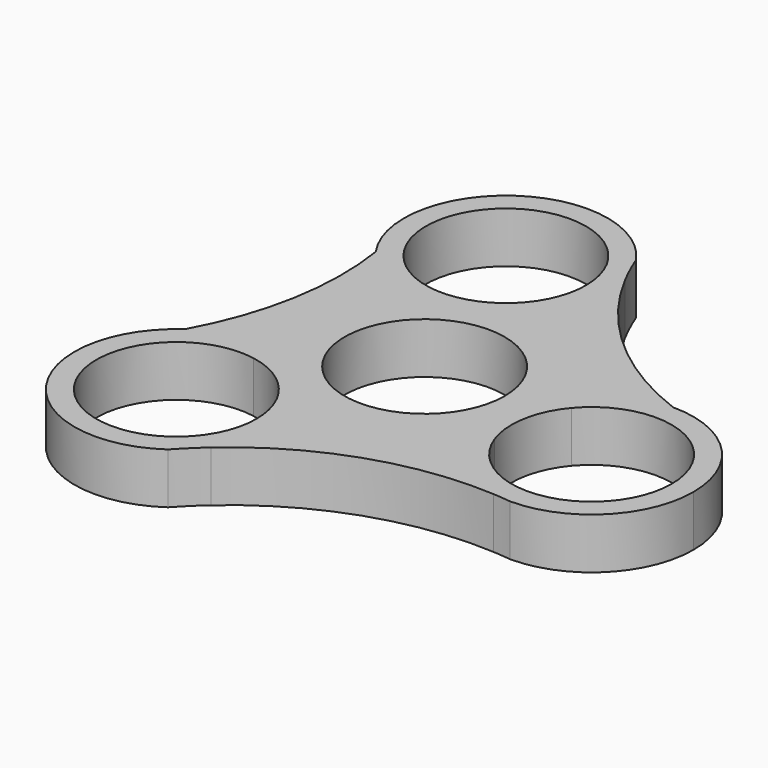
from build123d import *

# Parameters (mm, degrees)
F0_R     = 11
F1_DEPTH = 7


with BuildPart() as f1:
    # F0 (on Top) → F1 (new body)
    with BuildSketch(Plane.XY):
        with BuildLine():
            ThreePointArc((-25.5157140459, -9.3186724491), (-20.5076802891, -7.1172371315), (-15.0383400996, -7.0030554454))
            Line((-15.0383400996, -7.0030554454), (-11.7072511448, 11.7530731792))
            ThreePointArc((-11.7072511448, 11.7530731792), (-16.8027987362, 13.743579223), (-20.7465280977, 17.5348479143))
            ThreePointArc((-20.7465280977, 17.5348479143), (-20.9101748534, 3.7136476237), (-25.5157140459, -9.3186724491))
        make_face()
        with BuildLine():
            Line((-7.1451766465, -17.0378932968), (-4.3248343733, -16.0153134895))
            ThreePointArc((-4.3248343733, -16.0153134895), (-8.474173604, -10.0738468637), (-15.0383400996, -7.0030554454))
            Line((-15.0383400996, -7.0030554454), (-15.5629311457, -9.956833405))
            ThreePointArc((-15.5629311457, -9.956833405), (-10.4053717563, -12.3695980908), (-7.1451766465, -17.0378932968))
        make_face()
        with BuildLine():
            ThreePointArc((-3.4864316481, -20.78735259), (-3.6976252848, -18.364788024), (-4.3248343733, -16.0153134895))
            Line((-4.3248343733, -16.0153134895), (-7.1451766465, -17.0378932968))
            ThreePointArc((-7.1451766465, -17.0378932968), (-6.6523695055, -18.8839090024), (-6.4864316481, -20.78735259))
            ThreePointArc((-6.4864316481, -20.78735259), (-25.9172828959, -27.8528141629), (-15.5629311457, -9.956833405))
            Line((-15.5629311457, -9.956833405), (-15.0383400996, -7.0030554454))
            ThreePointArc((-15.0383400996, -7.0030554454), (-20.5076802891, -7.1172371315), (-25.5157140459, -9.3186724491))
            ThreePointArc((-25.5157140459, -9.3186724491), (-28.9551117891, -28.8166349879), (-9.4571492503, -32.256032731))
            ThreePointArc((-9.4571492503, -32.256032731), (-7.8553926266, -30.5950118305), (-6.1655412039, -29.0237012683))
            ThreePointArc((-6.1655412039, -29.0237012683), (-4.1730461617, -25.1179145502), (-3.4864316481, -20.78735259))
        make_face()
        with BuildLine():
            ThreePointArc((24.3025684766, -18.5352141326), (17.7353030809, -15.4651802248), (13.5839939697, -9.5220568343))
            Line((13.5839939697, -9.5220568343), (-4.3248343733, -16.0153134895))
            ThreePointArc((-4.3248343733, -16.0153134895), (-3.6976252848, -18.364788024), (-3.4864316481, -20.78735259))
            ThreePointArc((-3.4864316481, -20.78735259), (-4.1730461617, -25.1179145502), (-6.1655412039, -29.0237012683))
            ThreePointArc((-6.1655412039, -29.0237012683), (8.0319642762, -20.7683752456), (24.3025684766, -18.5352141326))
        make_face()
        with BuildLine():
            Line((-4.3248343733, -16.0153134895), (13.5839939697, -9.5220568343))
            ThreePointArc((13.5839939697, -9.5220568343), (12.9612940998, -2.3019261853), (16.0320855181, 4.2622403103))
            Line((16.0320855181, 4.2622403103), (1.4543461299, 16.5251122797))
            ThreePointArc((1.4543461299, 16.5251122797), (-4.4871204958, 12.375773049), (-11.7072511448, 11.7530731792))
            Line((-11.7072511448, 11.7530731792), (-15.0383400996, -7.0030554454))
            ThreePointArc((-15.0383400996, -7.0030554454), (-8.474173604, -10.0738468637), (-4.3248343733, -16.0153134895))
        make_face()
        Circle(F0_R, mode=Mode.SUBTRACT)
        with BuildLine():
            ThreePointArc((-11.7072511448, 11.7530731792), (-4.4871204958, 12.375773049), (1.4543461299, 16.5251122797))
            Line((1.4543461299, 16.5251122797), (-0.8414050971, 18.456310432))
            ThreePointArc((-0.8414050971, 18.456310432), (-5.5097003031, 15.1961153222), (-11.1826600987, 14.7068511388))
            Line((-11.1826600987, 14.7068511388), (-11.7072511448, 11.7530731792))
        make_face()
        with BuildLine():
            Line((-0.8414050971, 18.456310432), (1.4543461299, 16.5251122797))
            ThreePointArc((1.4543461299, 16.5251122797), (3.8935792851, 20.7409695987), (4.7408404036, 25.5373703238))
            ThreePointArc((4.7408404036, 25.5373703238), (4.6314684694, 27.2839246284), (4.3050615552, 29.003189787))
            ThreePointArc((4.3050615552, 29.003189787), (3.1997634843, 31.2409281113), (2.228208905, 33.5398927333))
            ThreePointArc((2.228208905, 33.5398927333), (-17.2616820059, 37.0247388251), (-20.7465280977, 17.5348479143))
            ThreePointArc((-20.7465280977, 17.5348479143), (-16.8027987362, 13.743579223), (-11.7072511448, 11.7530731792))
            Line((-11.7072511448, 11.7530731792), (-11.1826600987, 14.7068511388))
            ThreePointArc((-11.1826600987, 14.7068511388), (-16.3246211692, 33.9682215716), (1.7408404036, 25.5373703238))
            ThreePointArc((1.7408404036, 25.5373703238), (1.0751352391, 21.7687697541), (-0.8414050971, 18.456310432))
        make_face()
        with BuildLine():
            Line((1.4543461299, 16.5251122797), (16.0320855181, 4.2622403103))
            ThreePointArc((16.0320855181, 4.2622403103), (20.8367678682, 7.9419405985), (26.7455912444, 9.2499822662))
            ThreePointArc((26.7455912444, 9.2499822662), (13.7242771945, 17.0805133511), (4.3050615552, 29.003189787))
            ThreePointArc((4.3050615552, 29.003189787), (4.6314684694, 27.2839246284), (4.7408404036, 25.5373703238))
            ThreePointArc((4.7408404036, 25.5373703238), (3.8935792851, 20.7409695987), (1.4543461299, 16.5251122797))
        make_face()
        with BuildLine():
            Line((13.5839939697, -9.5220568343), (16.4043362428, -8.499477027))
            ThreePointArc((16.4043362428, -8.499477027), (15.9150720594, -2.8265172314), (18.3278367452, 2.331042158))
            Line((18.3278367452, 2.331042158), (16.0320855181, 4.2622403103))
            ThreePointArc((16.0320855181, 4.2622403103), (12.9612940998, -2.3019261853), (13.5839939697, -9.5220568343))
        make_face()
        with BuildLine():
            ThreePointArc((37.7455912444, -4.7500177338), (28.649034832, -15.5840798763), (16.4043362428, -8.499477027))
            Line((16.4043362428, -8.499477027), (13.5839939697, -9.5220568343))
            ThreePointArc((13.5839939697, -9.5220568343), (17.7353030809, -15.4651802248), (24.3025684766, -18.5352141326))
            ThreePointArc((24.3025684766, -18.5352141326), (25.525635115, -18.624927579), (26.7455912444, -18.7500177338))
            ThreePointArc((26.7455912444, -18.7500177338), (36.645086181, -14.6495126704), (40.7455912444, -4.7500177338))
            ThreePointArc((40.7455912444, -4.7500177338), (36.645086181, 5.1494772028), (26.7455912444, 9.2499822662))
            ThreePointArc((26.7455912444, 9.2499822662), (20.8367678682, 7.9419405985), (16.0320855181, 4.2622403103))
            Line((16.0320855181, 4.2622403103), (18.3278367452, 2.331042158))
            ThreePointArc((18.3278367452, 2.331042158), (30.5141918142, 5.5842771017), (37.7455912444, -4.7500177338))
        make_face()
    extrude(amount=F1_DEPTH)


solid = f1.part
